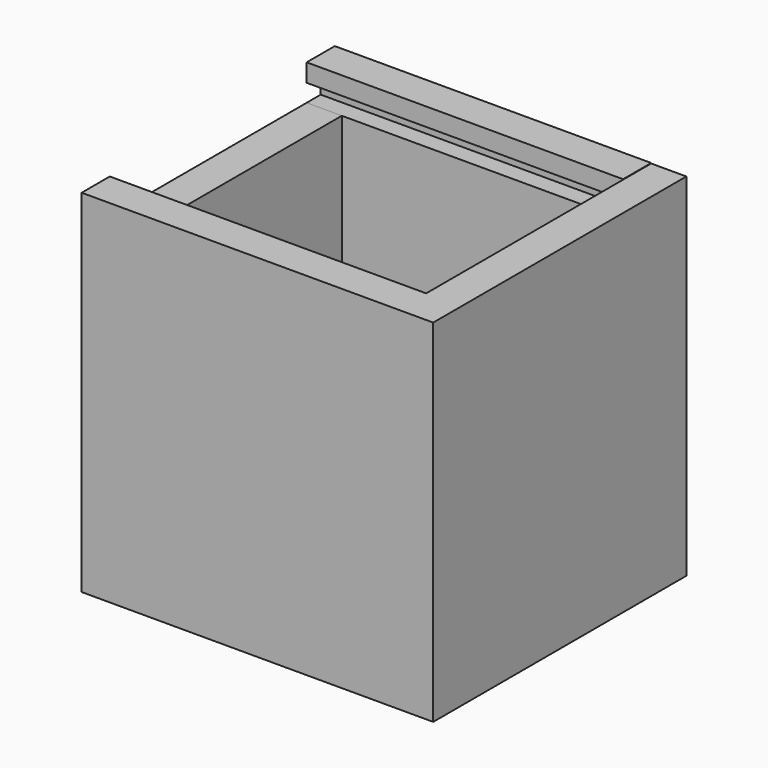
from build123d import *

# Parameters (mm, degrees)
F0_W      = 25.4
F0_H      = 25.4
F1_DEPTH  = 2.54
F2_W      = 20.32
F2_H      = 25.4
F3_DEPTH  = 2.54
F5_DEPTH  = 2.54
F6_W      = 2.54
F6_H      = 17.78
F7_DEPTH  = 25.4
F8_W      = 22.86
F8_H      = 17.78
F9_DEPTH  = 2.54
F10_W     = 1.27
F10_H     = 1.27
F11_DEPTH = 22.86
F13_DEPTH = 1.27


with BuildPart() as f1:
    # F0 (on Front) → F1 (new body)
    with BuildSketch(Plane.XZ):
        with Locations((12.7, 12.7)):
            Rectangle(F0_W, F0_H)
    extrude(amount=F1_DEPTH)

    # F2 (on face) → F3 (join)
    with BuildSketch(Plane.YZ.offset(25.4)):
        with Locations((10.16, 12.7)):
            Rectangle(F2_W, F2_H)
    extrude(amount=-F3_DEPTH)

    # F4 (on face) → F5 (join)
    with BuildSketch(Plane(origin=(0, 20.32, 0), x_dir=(-1, 0, 0), z_dir=(0, 1, 0))):
        Polygon((-22.86, 25.4), (-22.86, 0), (0, 0), (0, 25.4329182208), (-22.86, 25.4329182208), align=None)
    extrude(amount=-F5_DEPTH)


with BuildPart() as f7:
    # F6 (on face) → F7 (new body)
    with BuildSketch(Plane.XY.offset(25.4329182208)):
        with Locations((1.27, 8.89)):
            Rectangle(F6_W, F6_H)
    extrude(amount=-F7_DEPTH)


with BuildPart() as f9:
    # F8 (on Top) → F9 (new body)
    with BuildSketch(Plane.XY):
        with Locations((11.43, 8.89)):
            Rectangle(F8_W, F8_H)
    extrude(amount=F9_DEPTH)


with BuildPart() as f11_tool:
    # F10 (on face) → F11 (new body)
    with BuildSketch(Plane(origin=(0, 0, 0), x_dir=(0, -1, 0), z_dir=(-1, 0, 0))):
        with Locations((0.635, 23.495)):
            Rectangle(F10_W, F10_H)
        Polygon((-17.78, 22.86), (0, 22.86), (0, 24.13), (0, 25.4329182208), (-17.78, 25.4329182208), (-17.78, 24.13), align=None)
        with Locations((-18.415, 23.495)):
            Rectangle(F10_W, F10_H)
    extrude(amount=-F11_DEPTH)


with BuildPart() as f1_1:
    add(f1.part)

    # F11: cut by f11_tool
    add(f11_tool.part, mode=Mode.SUBTRACT)

    # F12 (on face) → F13 (cut)
    with BuildSketch(Plane(origin=(22.86, 0, 0), x_dir=(0, -1, 0), z_dir=(-1, 0, 0))):
        Polygon((-17.78, 24.13), (-19.05, 24.13), (-19.05, 22.86), (-17.78, 22.86), (0, 22.86), (1.27, 22.86), (1.27, 24.13), (0, 24.13), align=None)
    extrude(amount=-F13_DEPTH, mode=Mode.SUBTRACT)


with BuildPart() as f7_1:
    add(f7.part)

    # F11: cut by f11_tool
    add(f11_tool.part, mode=Mode.SUBTRACT)


solid = Compound([f9.part, f1_1.part, f7_1.part])
